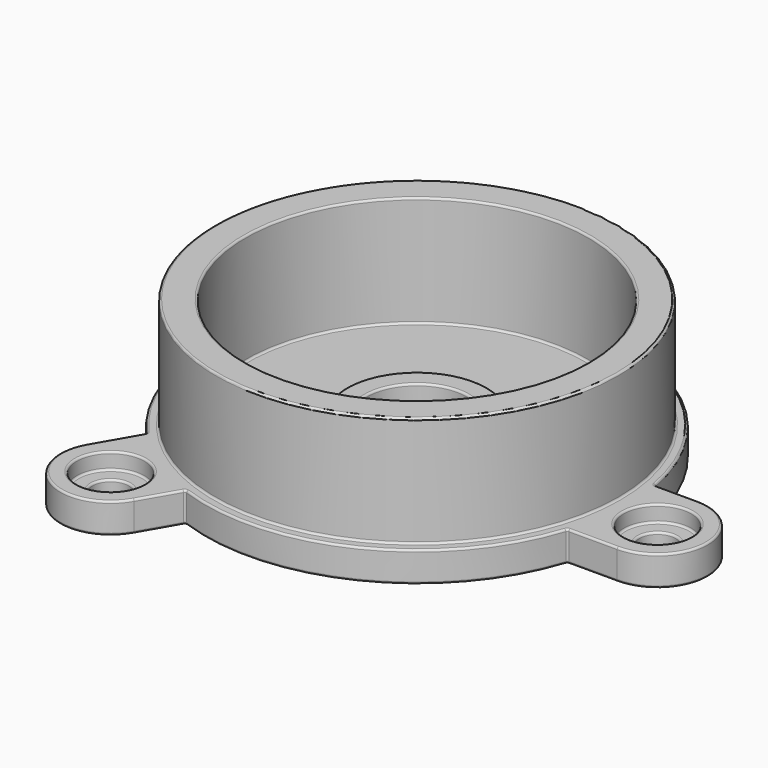
from build123d import *

# Parameters (mm, degrees)
F4_DEPTH = 3
F5_R     = 1.8
F6_DEPTH = 5.001
F7_R     = 3.35
F7_R_2   = 1.8
F8_DEPTH = 1.65
F9_R     = 0.2


with BuildPart() as f2:
    # F0 (on Front) → F2 (revolve)
    with BuildSketch(Plane.XZ):
        Polygon((17, 0), (7, 0), (7, 1), (5, 1), (5, 0), (5, -5), (10, -5), (10, -3), (21, -3), (21, 0), (20, 0), (20, 11), (17, 11), align=None)
    revolve(axis=Axis((0, 0, -2.7287662961), (0, 0, -1)))

    # F3 (on face) → F4 (join)
    with BuildSketch(Plane(origin=(0, 0, -3), x_dir=(1, 0, 0), z_dir=(0, 0, -1))):
        with BuildLine():
            Line((20.6816868426, -3.6425031699), (24.9631168398, -3.6425031699))
            ThreePointArc((24.9631168398, -3.6425031699), (29.9631168398, 1.3574968301), (24.9631168398, 6.3574968301))
            Line((24.9631168398, 6.3574968301), (20.0145505584, 6.3574968301))
            ThreePointArc((20.0145505584, 6.3574968301), (20.7521753285, 3.2167093646), (21, 0))
            ThreePointArc((21, 0), (20.9202703579, -1.8281925917), (20.6816868426, -3.6425031699))
        make_face()
        with BuildLine():
            ThreePointArc((-15.5130290385, 14.1543608139), (-11.687310108, 17.4472571609), (-7.1863431428, 19.7321177838))
            Line((-7.1863431428, 19.7321177838), (-9.3270581414, 23.4399449259))
            ThreePointArc((-9.3270581414, 23.4399449259), (-16.1571851603, 25.2700719448), (-17.9873121792, 18.4399449259))
            Line((-17.9873121792, 18.4399449259), (-15.5130290385, 14.1543608139))
        make_face()
        with BuildLine():
            Line((-6.9758046606, -24.7974417559), (-4.5015215199, -20.511857644))
            ThreePointArc((-4.5015215199, -20.511857644), (-9.2661128737, -18.8451360359), (-13.4953436999, -16.0896146139))
            Line((-13.4953436999, -16.0896146139), (-15.6360586984, -19.7974417559))
            ThreePointArc((-15.6360586984, -19.7974417559), (-13.8059316795, -26.6275687748), (-6.9758046606, -24.7974417559))
        make_face()
    extrude(amount=-F4_DEPTH)

    # F5 (on face) → F6 (cut, through all)
    with BuildSketch(Plane.XY):
        with Locations((-13.6571851603, -20.9399449259)):
            Circle(F5_R)
        with Locations((24.9631168398, -1.3574968301)):
            Circle(F5_R)
        with Locations((-11.3059316795, 22.2974417559)):
            Circle(F5_R)
    extrude(amount=-F6_DEPTH, mode=Mode.SUBTRACT)

    # F7 (on face) → F8 (cut)
    with BuildSketch(Plane.XY):
        with Locations((-13.6571851603, -20.9399449259)):
            Circle(F7_R)
        with Locations((-13.6571851603, -20.9399449259)):
            Circle(F7_R_2, mode=Mode.SUBTRACT)
        with Locations((24.9631168398, -1.3574968301)):
            Circle(F7_R)
        with Locations((24.9631168398, -1.3574968301)):
            Circle(F7_R_2, mode=Mode.SUBTRACT)
        with Locations((-11.3059316795, 22.2974417559)):
            Circle(F7_R)
        with Locations((-11.3059316795, 22.2974417559)):
            Circle(F7_R_2, mode=Mode.SUBTRACT)
    extrude(amount=-F8_DEPTH, mode=Mode.SUBTRACT)

    # F9
    f9_edges = [f2.edges().sort_by_distance(p)[0] for p in [
        (-17, 0, 11),
        (-20, 0, 11),
        (-17, 0, 0),
        (-7, 0, 1),
        (-5, 0, 1),
        (-7, 0, 0),
        (11.68731, 17.447257, 0),
        (-20, 0, 0),
        (-5.738663, 22.65465, 0),
        (-13.805932, 26.627569, 0),
        (-14.565701, 17.943528, 0),
        (-14.655932, 22.297442, 0),
        (-14.655932, 22.297442, -1.65),
        (-13.105932, 22.297442, -1.65),
        (-13.105932, 22.297442, -3),
        (-5.738663, 22.65465, -3),
        (-13.805932, 26.627569, -3),
        (11.68731, 17.447257, -3),
        (22.822402, 3.642503, 0),
        (21.613117, -1.357497, 0),
        (21.613117, -1.357497, -1.65),
        (23.163117, -1.357497, -3),
        (23.163117, -1.357497, -1.65),
        (22.488834, -6.357497, 0),
        (29.963117, -1.357497, 0),
        (9.266113, -18.845136, 0),
        (-8.256701, -21.586031, 0),
        (9.266113, -18.845136, -3),
        (-7.186343, -19.732118, -1.5),
        (20.014551, -6.357497, -1.5),
        (22.488834, -6.357497, -3),
        (29.963117, -1.357497, -3),
        (-8.256701, -21.586031, -3),
        (-16.157185, -25.270072, -3),
        (-17.007185, -20.939945, 0),
        (-17.007185, -20.939945, -1.65),
        (-15.457185, -20.939945, -1.65),
        (-16.157185, -25.270072, 0),
        (-20.953423, 1.397879, 0),
        (-16.750171, -16.297153, 0),
        (-16.750171, -16.297153, -3),
        (-20.953423, 1.397879, -3),
        (22.822402, 3.642503, -3),
        (-5, 0, -5),
        (-10, 0, -5),
        (-10, 0, -3),
        (-14.565701, 17.943528, -3),
        (-15.513029, -14.154361, -1.5),
        (-13.495344, 16.089615, -1.5),
        (-17.987312, -18.439945, -1.5),
        (20.681687, 3.642503, -1.5),
    ]]
    fillet(f9_edges, radius=F9_R)


solid = f2.part
